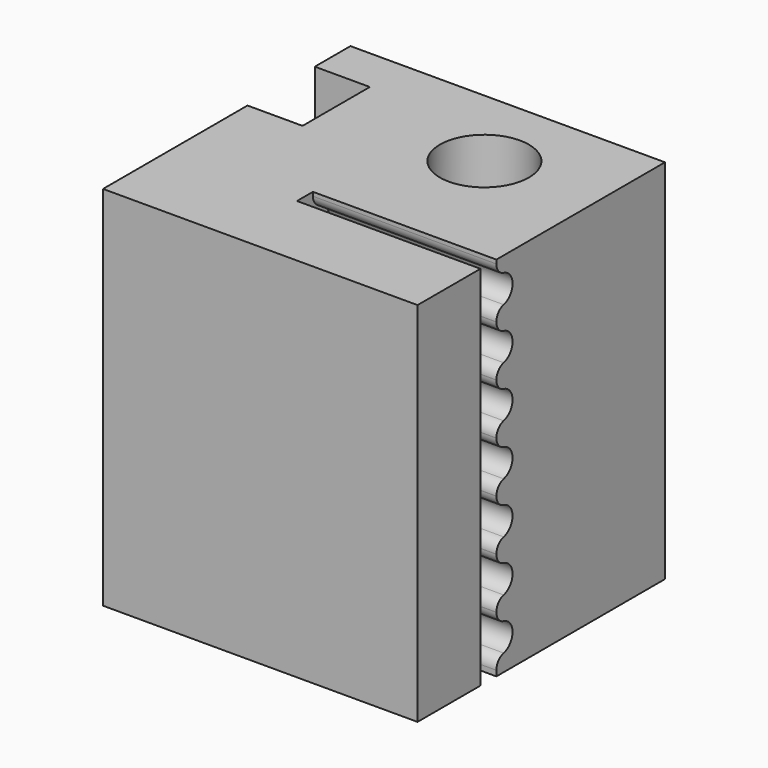
from build123d import *

# Parameters (mm, degrees)
F0_R     = 1.7
F1_DEPTH = 14
F2_R     = 2.88
F2_R_2   = 1.7
F3_DEPTH = 3
F4_R     = 0.55
F5_DEPTH = 7
F6_R     = 0.45


with BuildPart() as f1:
    # F0 (on Top) → F1 (new body)
    with BuildSketch(Plane.XY):
        Polygon((0, 6.89), (0, 0), (12, 0), (12, 3), (5, 3), (5, 3.76), (12, 3.76), (12, 11.8), (0, 11.8), (0, 10.1), (2.1, 10.1), (2.1, 6.89), align=None)
        with Locations((7.75, 8.5)):
            Circle(F0_R, mode=Mode.SUBTRACT)
    extrude(amount=F1_DEPTH)

    # F2 (on face) → F3 (cut)
    with BuildSketch(Plane(origin=(0, 0, 0), x_dir=(1, 0, 0), z_dir=(0, 0, -1))):
        with Locations((7.75, -8.5)):
            Circle(F2_R)
        with Locations((7.75, -8.5)):
            Circle(F2_R_2, mode=Mode.SUBTRACT)
    extrude(amount=-F3_DEPTH, mode=Mode.SUBTRACT)

    # F4 (on face) → F5 (cut, through all)
    with BuildSketch(Plane.YZ.offset(12)):
        with Locations((3.98, 12.88)):
            Circle(F4_R)
        with Locations((3.98, 10.93)):
            Circle(F4_R)
        with Locations((3.98, 8.98)):
            Circle(F4_R)
        with Locations((3.98, 7.03)):
            Circle(F4_R)
        with Locations((3.98, 5.08)):
            Circle(F4_R)
        with Locations((3.98, 3.13)):
            Circle(F4_R)
        with Locations((3.98, 1.18)):
            Circle(F4_R)
    extrude(amount=-F5_DEPTH, mode=Mode.SUBTRACT)

    # F6
    f6_edges = [f1.edges().sort_by_distance(p)[0] for p in [
        (8.5, 3.76, 12.375917),
        (8.5, 3.76, 13.384083),
        (8.5, 3.76, 11.434083),
        (8.5, 3.76, 10.425917),
        (8.5, 3.76, 9.484083),
        (8.5, 3.76, 8.475917),
        (8.5, 3.76, 7.534083),
        (8.5, 3.76, 6.525917),
        (8.5, 3.76, 5.584083),
        (8.5, 3.76, 4.575917),
        (8.5, 3.76, 3.634083),
        (8.5, 3.76, 2.625917),
        (8.5, 3.76, 1.684083),
        (8.5, 3.76, 0.675917),
    ]]
    fillet(f6_edges, radius=F6_R)


solid = f1.part
